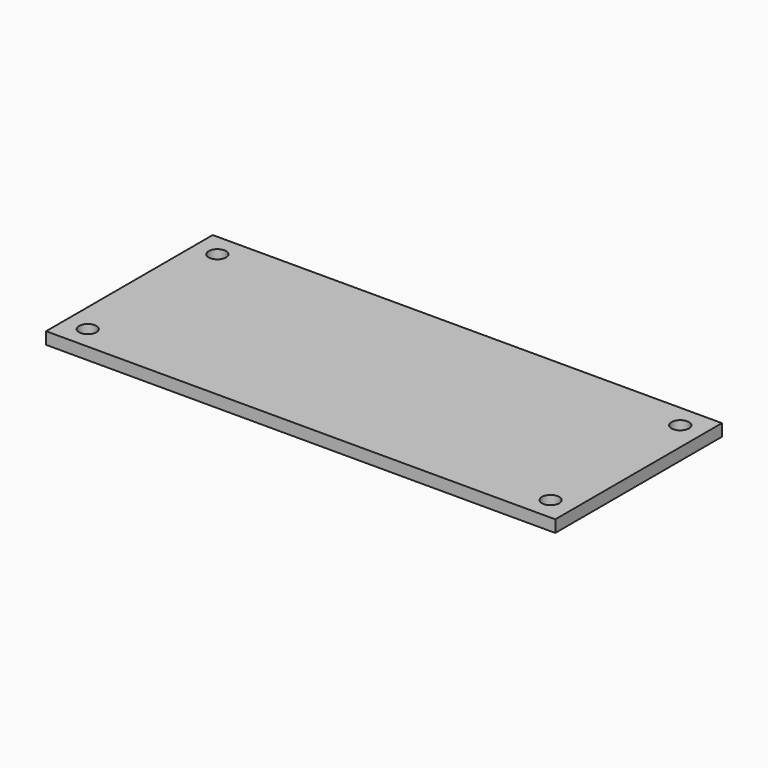
from build123d import *

# Parameters (mm, degrees)
F0_W     = 139.7
F0_H     = 57.15
F1_DEPTH = 1.651
F2_R     = 2.38125
F3_DEPTH = 3.302


with BuildPart() as f1:
    # F0 (on Top) → F1 (new body, symmetric)
    with BuildSketch(Plane.XY):
        Rectangle(F0_W, F0_H)
    extrude(amount=F1_DEPTH, both=True)

    # F2 (on face) → F3 (cut, through all)
    with BuildSketch(Plane.XY.offset(1.651)):
        with Locations((-63.5, -22.225)):
            Circle(F2_R)
        with Locations((-63.5, 22.225)):
            Circle(F2_R)
        with Locations((63.5, -22.225)):
            Circle(F2_R)
        with Locations((63.5, 22.225)):
            Circle(F2_R)
    extrude(amount=-F3_DEPTH, mode=Mode.SUBTRACT)


solid = f1.part
